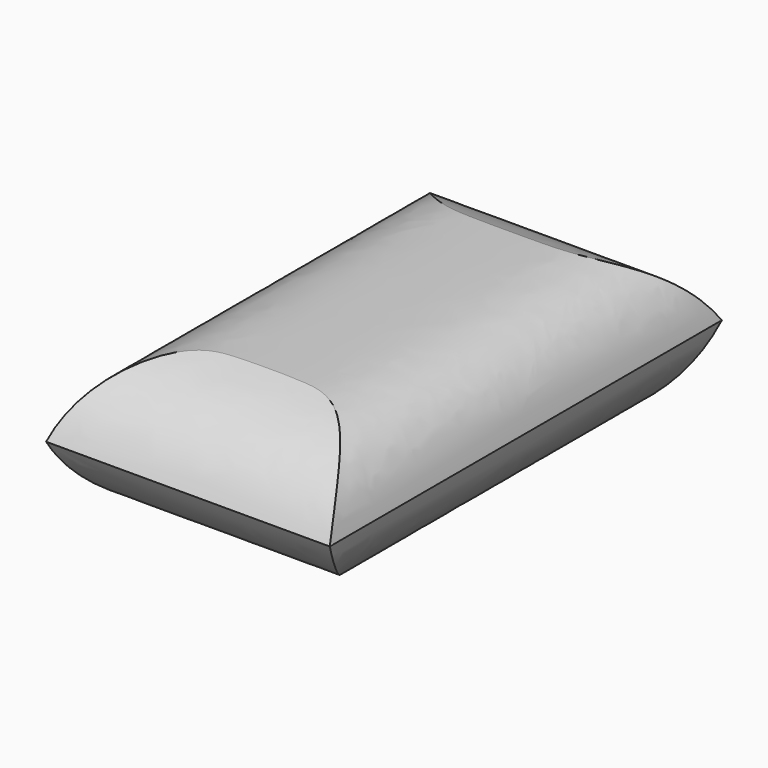
from build123d import *

# Parameters (mm, degrees)
F1_DEPTH = 1000
F3_DEPTH = 578.7299967938


with BuildPart() as f1:
    # F0 (on Front) → F1 (new body)
    with BuildSketch(Plane.XZ):
        with BuildLine():
            add(Edge.make_bspline(
                [(0, 0), (48.0748824775, 147.3371833563), (241.4094790293, 150.5080118734), (355.6877087513, 150.5605711604), (551.9251175225, 147.3371833563), (578.7289966938, 0)],
                knots=[0, 0, 0, 0, 0.3776193979, 0.6345415082, 1, 1, 1, 1], degree=3))
            add(Edge.make_bspline(
                [(0, 0), (48.0748824775, -147.3371833563), (241.4094790293, -150.5080118734), (355.6877087513, -150.5605711604), (551.9251175225, -147.3371833563), (578.7289966938, 0)],
                knots=[0, 0, 0, 0, 0.3776193979, 0.6345415082, 1, 1, 1, 1], degree=3))
        make_face()
    extrude(amount=F1_DEPTH)

    # F2 (on Right) → F3 (intersect, through all)
    with BuildSketch(Plane.YZ):
        with BuildLine():
            add(Edge.make_bspline(
                [(0, 0), (-54.7927944, -76.6694620394), (-212.7531321123, -204.2336759455), (-778.8210606623, -196.1024657565), (-961.6431092738, -86.6218629082), (-1000, 0)],
                knots=[0, 0, 0, 0, 0.294703206, 0.705296794, 1, 1, 1, 1], degree=3))
            add(Edge.make_bspline(
                [(0, 0), (-54.7927944, 76.6694620394), (-212.7531321123, 204.2336759455), (-778.8210606623, 196.1024657565), (-961.6431092738, 86.6218629082), (-1000, 0)],
                knots=[0, 0, 0, 0, 0.294703206, 0.705296794, 1, 1, 1, 1], degree=3))
        make_face()
    extrude(amount=F3_DEPTH, mode=Mode.INTERSECT)


solid = f1.part
